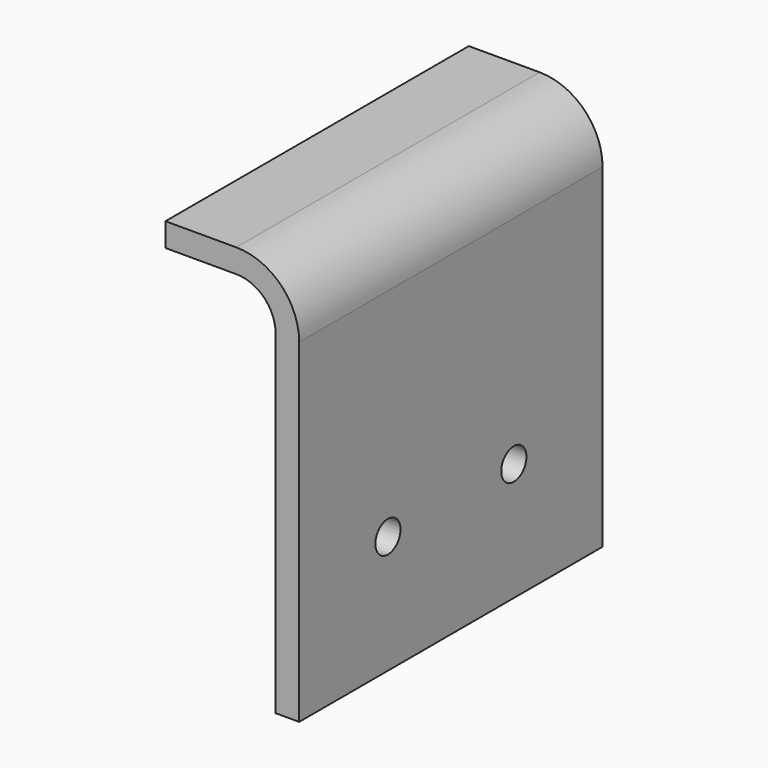
from build123d import *

# Parameters (mm, degrees)
F1_DEPTH = 24.1
F2_R     = 2
F3_DEPTH = 17.001


with BuildPart() as f1:
    # F0 (on Front) → F1 (new body, symmetric)
    with BuildSketch(Plane.XZ):
        with BuildLine():
            Line((0, 42.5), (0, 0))
            Line((0, 0), (3, 0))
            Line((3, 0), (3, 42.5))
            ThreePointArc((3, 42.5), (0.656854, 48.156854), (-5, 50.5))
            Line((-5, 50.5), (-14, 50.5))
            Line((-14, 50.5), (-14, 47.5))
            Line((-14, 47.5), (-5, 47.5))
            ThreePointArc((-5, 47.5), (-1.464466, 46.035534), (0, 42.5))
        make_face()
    extrude(amount=F1_DEPTH, both=True)

    # F2 (on face) → F3 (cut, through all)
    with BuildSketch(Plane.YZ.offset(3)):
        with Locations((-10, 15)):
            Circle(F2_R)
        with Locations((10, 15)):
            Circle(F2_R)
    extrude(amount=-F3_DEPTH, mode=Mode.SUBTRACT)


solid = f1.part
